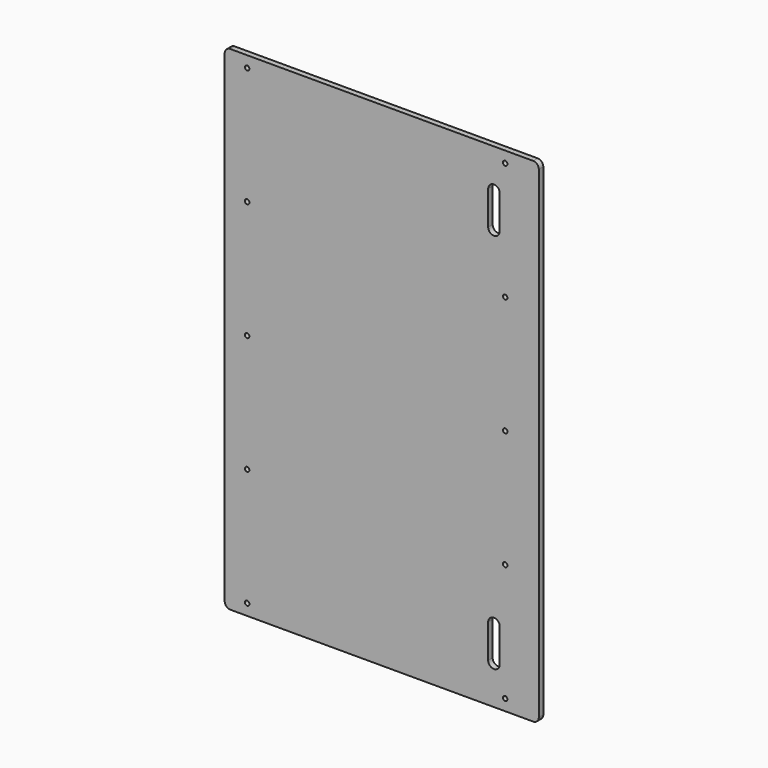
from build123d import *

# Parameters (mm, degrees)
F1_DEPTH = 6.35
F2_D     = 5.1054


with BuildPart() as f1:
    # F0 (on Front) → F1 (new body)
    with BuildSketch(Plane.XZ):
        with BuildLine():
            Line((-171.45, -279.4), (171.45, -279.4))
            ThreePointArc((171.45, -279.4), (175.9401280605, -277.5401280605), (177.8, -273.05))
            Line((177.8, -273.05), (177.8, 273.05))
            ThreePointArc((177.8, 273.05), (175.9401280605, 277.5401280605), (171.45, 279.4))
            Line((171.45, 279.4), (-171.45, 279.4))
            ThreePointArc((-171.45, 279.4), (-175.9401280605, 277.5401280605), (-177.8, 273.05))
            Line((-177.8, 273.05), (-177.8, -273.05))
            ThreePointArc((-177.8, -273.05), (-175.9401280605, -277.5401280605), (-171.45, -279.4))
        make_face()
        with BuildLine():
            Line((133.5151, -196.85), (133.5151, -234.95))
            ThreePointArc((133.5151, -234.95), (127, -241.4651), (120.4849, -234.95))
            Line((120.4849, -234.95), (120.4849, -196.85))
            ThreePointArc((120.4849, -196.85), (127, -190.3349), (133.5151, -196.85))
        make_face(mode=Mode.SUBTRACT)
        with BuildLine():
            ThreePointArc((120.4849, 234.95), (127, 241.4651), (133.5151, 234.95))
            Line((133.5151, 234.95), (133.5151, 196.85))
            ThreePointArc((133.5151, 196.85), (127, 190.3349), (120.4849, 196.85))
            Line((120.4849, 196.85), (120.4849, 234.95))
        make_face(mode=Mode.SUBTRACT)
    extrude(amount=F1_DEPTH)

    # F2 (through all)
    with Locations(Plane(origin=(0, 0, 0), x_dir=(1, 0, 0), z_dir=(0, 1, 0))):
        with Locations((139.7, 266.7), (139.7, 133.35), (139.7, 0), (139.7, -133.35), (139.7, -266.7), (-152.4, 266.7), (-152.4, 0), (-152.4, -133.35), (-152.4, -266.7), (-152.4, 133.35)):
            Hole(F2_D / 2)


solid = f1.part
